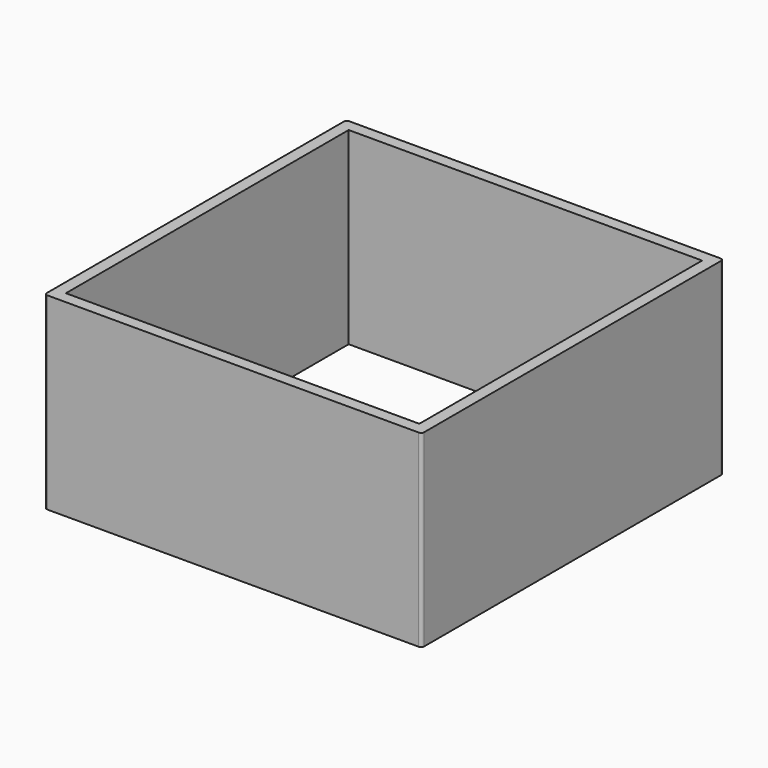
from build123d import *

# Parameters (mm, degrees)
F0_W     = 25.4
F0_H     = 25.4
F1_DEPTH = 12.7
F2_R     = 0.2
F3_T     = -0.8


with BuildPart() as f1:
    # F0 (on Top) → F1 (new body)
    with BuildSketch(Plane.XY):
        Rectangle(F0_W, F0_H)
    extrude(amount=F1_DEPTH)

    # F2
    f2_edges = [f1.edges().sort_by_distance(p)[0] for p in [
        (12.7, -12.7, 6.35),
        (12.7, 12.7, 6.35),
        (-12.7, -12.7, 6.35),
        (-12.7, 12.7, 6.35),
    ]]
    fillet(f2_edges, radius=F2_R)

    # F3
    f3_openings = [f1.faces().sort_by_distance(p)[0] for p in [
        (0, 0, 12.7),
        (0, 0, 0),
    ]]
    offset(amount=F3_T, openings=f3_openings)


solid = f1.part
